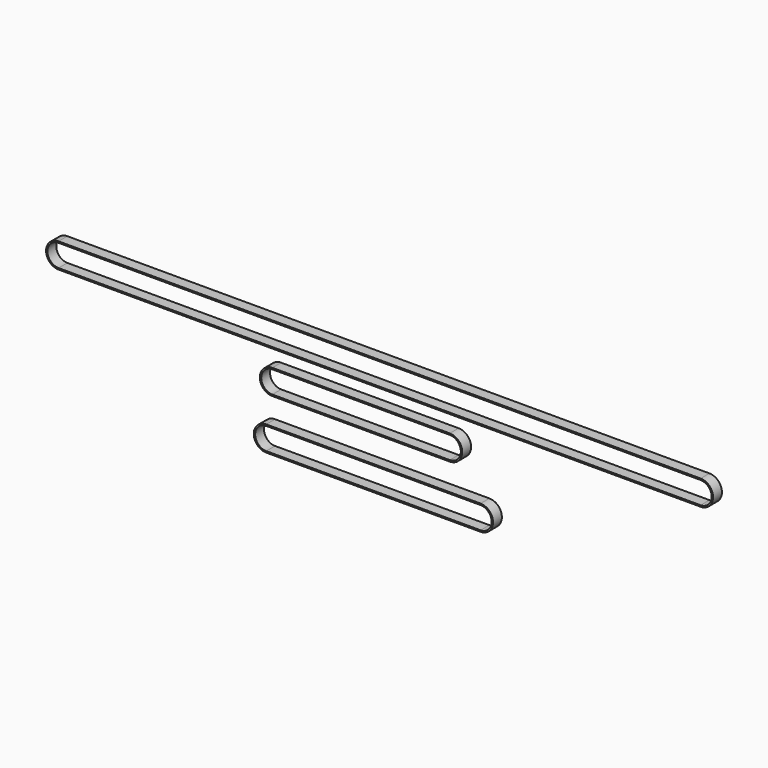
from build123d import *

# Parameters (mm, degrees)
F1_DEPTH = 6
F3_DEPTH = 6
F5_DEPTH = 6


with BuildPart() as f1:
    # F0 (on Front) → F1 (new body)
    with BuildSketch(Plane.XZ):
        with BuildLine():
            Line((181.914975, 10.334014), (-166.085025, 10.334014))
            ThreePointArc((-166.085025, 10.334014), (-172.835025, 3.584014), (-166.085025, -3.165986))
            Line((-166.085025, -3.165986), (181.914975, -3.165986))
            ThreePointArc((181.914975, -3.165986), (188.664975, 3.584014), (181.914975, 10.334014))
        make_face()
        with BuildLine():
            ThreePointArc((-166.085025, -2.415986), (-172.085025, 3.584014), (-166.085025, 9.584014))
            Line((-166.085025, 9.584014), (181.914975, 9.584014))
            ThreePointArc((181.914975, 9.584014), (187.914975, 3.584014), (181.914975, -2.415986))
            Line((181.914975, -2.415986), (-166.085025, -2.415986))
        make_face(mode=Mode.SUBTRACT)
    extrude(amount=F1_DEPTH)


with BuildPart() as f3:
    # F2 (on Front) → F3 (new body)
    with BuildSketch(Plane.XZ):
        with BuildLine():
            Line((45.962312, -12.33333), (-50.231058, -12.33333))
            ThreePointArc((-50.231058, -12.33333), (-56.981058, -19.08333), (-50.231058, -25.83333))
            Line((-50.231058, -25.83333), (45.962312, -25.83333))
            ThreePointArc((45.962312, -25.83333), (52.712312, -19.08333), (45.962312, -12.33333))
        make_face()
        with BuildLine():
            ThreePointArc((-50.231058, -25.08333), (-56.231058, -19.08333), (-50.231058, -13.08333))
            Line((-50.231058, -13.08333), (45.962312, -13.08333))
            ThreePointArc((45.962312, -13.08333), (51.962312, -19.08333), (45.962312, -25.08333))
            Line((45.962312, -25.08333), (-50.231058, -25.08333))
        make_face(mode=Mode.SUBTRACT)
    extrude(amount=F3_DEPTH)


with BuildPart() as f5:
    # F4 (on Front) → F5 (new body)
    with BuildSketch(Plane.XZ):
        with BuildLine():
            Line((62.6459, -40.393552), (-53.5191, -40.393552))
            ThreePointArc((-53.5191, -40.393552), (-60.2691, -47.143552), (-53.5191, -53.893552))
            Line((-53.5191, -53.893552), (62.6459, -53.893552))
            ThreePointArc((62.6459, -53.893552), (69.3959, -47.143552), (62.6459, -40.393552))
        make_face()
        with BuildLine():
            ThreePointArc((-53.5191, -53.143552), (-59.5191, -47.143552), (-53.5191, -41.143552))
            Line((-53.5191, -41.143552), (62.6459, -41.143552))
            ThreePointArc((62.6459, -41.143552), (68.6459, -47.143552), (62.6459, -53.143552))
            Line((62.6459, -53.143552), (-53.5191, -53.143552))
        make_face(mode=Mode.SUBTRACT)
    extrude(amount=F5_DEPTH)


solid = Compound([f1.part, f3.part, f5.part])
